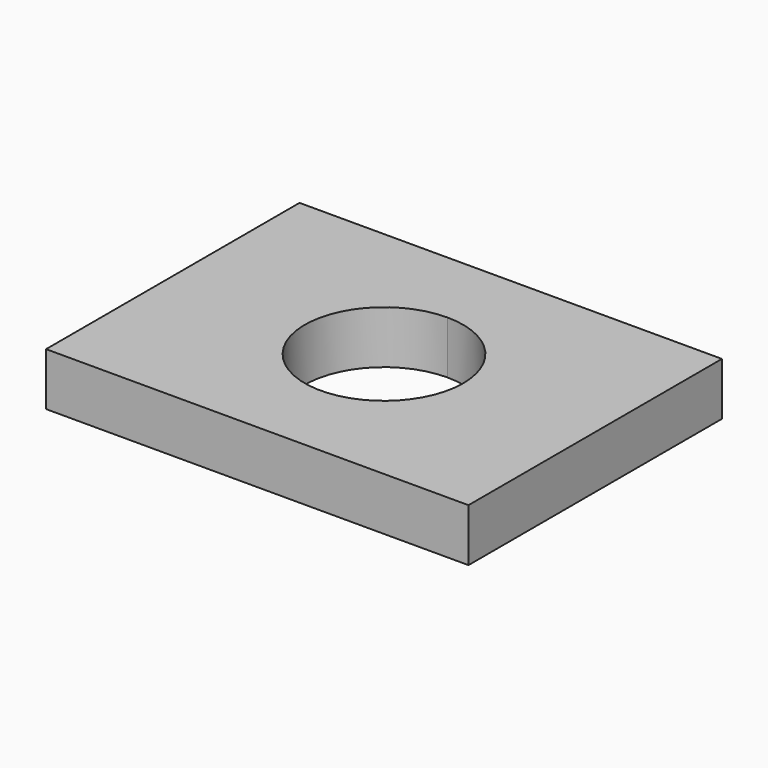
from build123d import *

# Parameters (mm, degrees)
F0_W     = 80
F0_H     = 60
F1_DEPTH = 10
F3_DEPTH = 10.001


with BuildPart() as f1:
    # F0 (on Top) → F1 (new body)
    with BuildSketch(Plane.XY):
        with Locations((40, 30)):
            Rectangle(F0_W, F0_H)
        with Locations((40, 30)):
            Rectangle(F0_W, F0_H)
    extrude(amount=F1_DEPTH)

    # F2 (on face) → F3 (cut, through all)
    with BuildSketch(Plane.XY.offset(10)):
        with BuildLine():
            ThreePointArc((40, 45), (29.393398, 19.393398), (55, 30))
            ThreePointArc((55, 30), (50.606602, 40.606602), (40, 45))
        make_face()
        with BuildLine():
            ThreePointArc((55, 30), (50.606602, 40.606602), (40, 45))
            ThreePointArc((40, 45), (29.393398, 19.393398), (55, 30))
        make_face()
    extrude(amount=-F3_DEPTH, mode=Mode.SUBTRACT)


solid = f1.part
